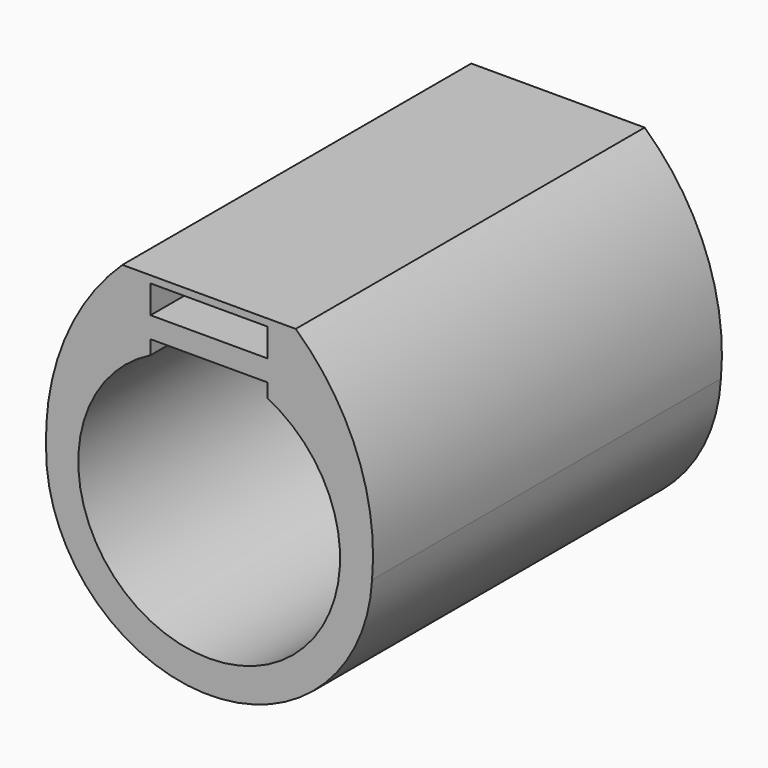
from build123d import *

# Parameters (mm, degrees)
F1_DEPTH = 4.2291
F3_DEPTH = 15.748
F5_DEPTH = 15.748
F7_DEPTH = 15.748


with BuildPart() as f1:
    # F0 (on Right) → F1 (new body, symmetric)
    with BuildSketch(Plane.YZ):
        Polygon((15.748, 0), (-15.748, 0), (-15.748, -1.524), (-9.906, -1.524), (-9.906, -2.54), (-1.016, -2.54), (-1.016, -1.524), (7.874, -1.524), (7.874, -2.54), (15.748, -2.54), align=None)
    extrude(amount=F1_DEPTH, both=True)

    # F2 (on Front) → F3 (join, symmetric)
    with BuildSketch(Plane.XZ):
        with BuildLine():
            Line((-4.2291, -2.54), (-4.2291, 0))
            ThreePointArc((-4.2291, 0), (0, -22.775418), (4.2291, 0))
            Line((4.2291, 0), (4.2291, -2.54))
            ThreePointArc((4.2291, -2.54), (0, -20.448815), (-4.2291, -2.54))
        make_face()
    extrude(amount=F3_DEPTH, both=True)

    # F4 (on Front) → F5 (join, symmetric)
    with BuildSketch(Plane.XZ):
        Polygon((4.21976, 0), (6.25176, 0), (6.25176, 2.54), (-6.27044, 2.53999), (-6.263331, 0), (-4.231331, 0), (-4.231331, 2.024057), (4.21976, 2.024057), align=None)
    extrude(amount=F5_DEPTH, both=True)

    # F6 (on Front) → F7 (join, symmetric)
    with BuildSketch(Plane.XZ):
        with BuildLine():
            ThreePointArc((4.2291, 0), (8.459615, -6.247831), (11.558468, -13.127494))
            ThreePointArc((11.558468, -13.127494), (10.93358, -4.606689), (6.25176, 2.54))
            Line((6.25176, 2.54), (4.2291, 0))
        make_face()
        with BuildLine():
            Line((-4.2291, 0), (-6.27044, 2.53999))
            ThreePointArc((-6.27044, 2.53999), (-10.850879, -4.640597), (-11.567703, -13.127494))
            ThreePointArc((-11.567703, -13.127494), (-8.993183, -5.951736), (-4.2291, 0))
        make_face()
    extrude(amount=F7_DEPTH, both=True)


solid = f1.part
